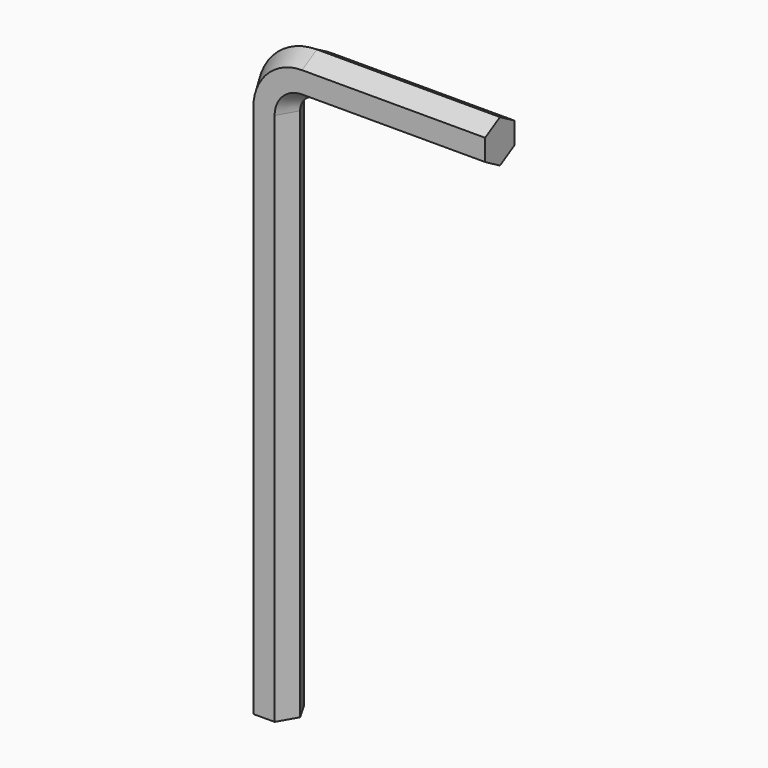
from build123d import *


with BuildPart() as f2:
    # F2: sweep along a path in F1
    with BuildLine(Plane.XZ) as f2_path:
        Line((0, 0), (0, 70))
        ThreePointArc((0, 70), (1.464466, 73.535534), (5, 75))
        Line((5, 75), (29, 75))
    # F0 (on Top) → F2 (sweep)
    with BuildSketch(Plane.XY):
        Polygon((-1.400074, 2.425), (-2.800149, 0), (-1.400074, -2.425), (1.400074, -2.425), (2.800149, 0), (1.400074, 2.425), align=None)
    sweep(path=f2_path.line)


solid = f2.part
